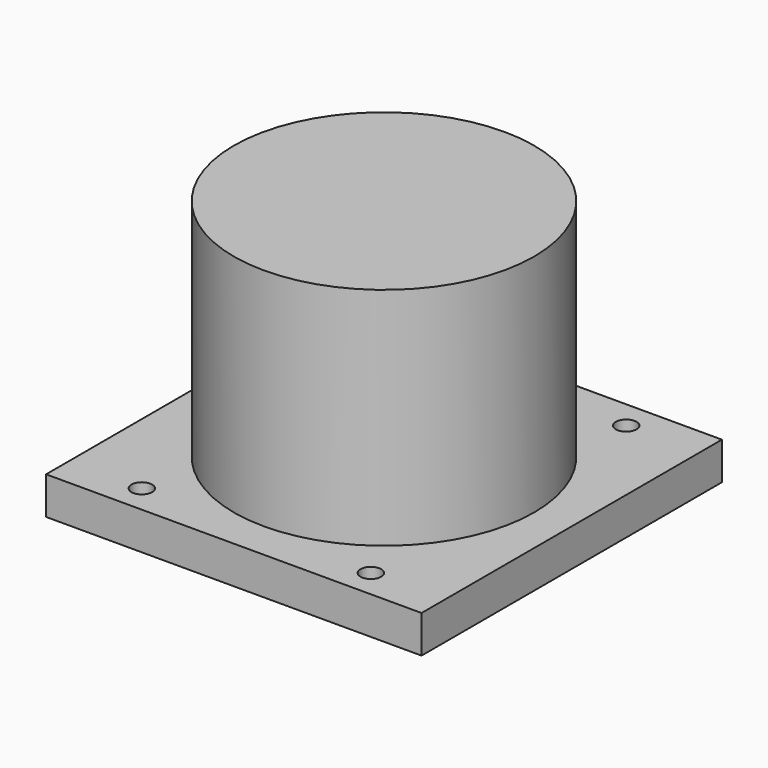
from build123d import *

# Parameters (mm, degrees)
F0_W     = 100
F0_H     = 100
F0_R     = 2.75
F0_R_2   = 35
F1_DEPTH = 10
F2_R     = 40
F2_R_2   = 35
F3_DEPTH = 60


with BuildPart() as f1:
    # F0 (on Top) → F1 (new body)
    with BuildSketch(Plane.XY):
        Rectangle(F0_W, F0_H)
        with Locations((-30.5, -42.5)):
            Circle(F0_R, mode=Mode.SUBTRACT)
        with Locations((30.5, -42.5)):
            Circle(F0_R, mode=Mode.SUBTRACT)
        with Locations((-30.5, 42.5)):
            Circle(F0_R, mode=Mode.SUBTRACT)
        Circle(F0_R_2, mode=Mode.SUBTRACT)
        with Locations((30.5, 42.5)):
            Circle(F0_R, mode=Mode.SUBTRACT)
    extrude(amount=F1_DEPTH)


with BuildPart() as f3:
    # F2 (on face) → F3 (new body)
    with BuildSketch(Plane.XY.offset(10)):
        Circle(F2_R)
        Circle(F2_R_2, mode=Mode.SUBTRACT)
        Circle(F2_R_2)
    extrude(amount=F3_DEPTH)


solid = Compound([f1.part, f3.part])
